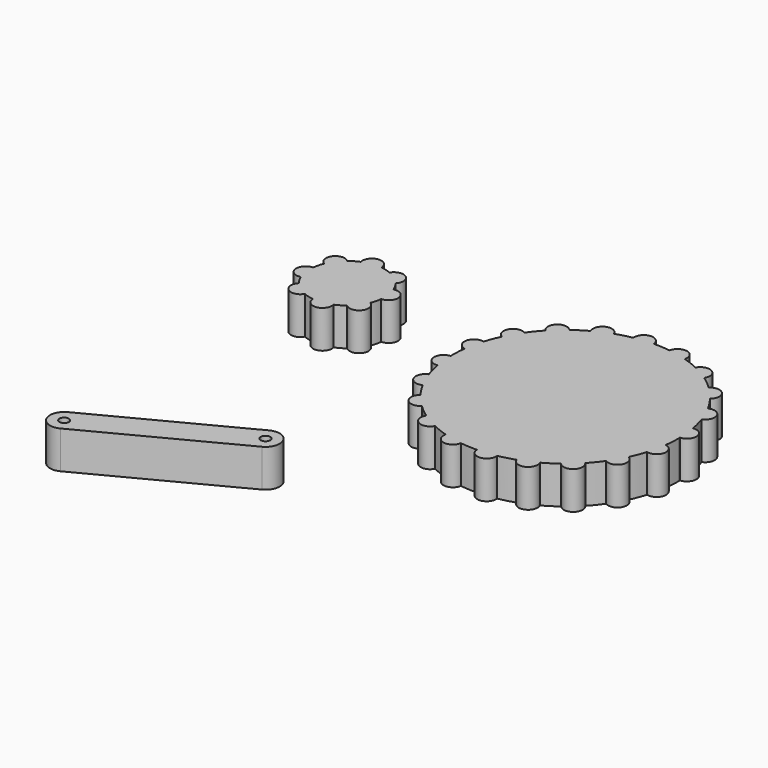
from build123d import *

# Parameters (mm, degrees)
F1_DEPTH = 25.4
F3_DEPTH = 25.4
F4_R     = 3.175
F5_DEPTH = 25.4


with BuildPart() as f1:
    # F0 (on Top) → F1 (new body)
    with BuildSketch(Plane.XY):
        with BuildLine():
            ThreePointArc((75.56192, -9.840543), (76.040313, -4.930604), (76.2, 0))
            ThreePointArc((76.2, 0), (76.196934, 0.683569), (76.187736, 1.367082))
            ThreePointArc((76.187736, 1.367082), (75.80937, 7.7058), (74.904551, 13.991005))
            ThreePointArc((74.904551, 13.991005), (73.670579, 19.470127), (72.036391, 24.843478))
            ThreePointArc((72.036391, 24.843478), (69.717773, 30.755035), (66.915003, 36.453016))
            ThreePointArc((66.915003, 36.453016), (64.048284, 41.282652), (60.833622, 45.88802))
            ThreePointArc((60.833622, 45.88802), (56.801714, 50.793753), (52.375349, 55.346751))
            ThreePointArc((52.375349, 55.346751), (48.156497, 59.054143), (43.676035, 62.440724))
            ThreePointArc((43.676035, 62.440724), (38.325507, 65.860425), (32.70883, 68.822761))
            ThreePointArc((32.70883, 68.822761), (27.550816, 71.045004), (22.243133, 72.881294))
            ThreePointArc((22.243133, 72.881294), (16.097733, 74.480219), (9.840543, 75.56192))
            ThreePointArc((9.840543, 75.56192), (4.24827, 76.081484), (-1.367082, 76.187736))
            ThreePointArc((-1.367082, 76.187736), (-7.7058, 75.80937), (-13.991005, 74.904551))
            ThreePointArc((-13.991005, 74.904551), (-19.470127, 73.670579), (-24.843478, 72.036391))
            ThreePointArc((-24.843478, 72.036391), (-30.755035, 69.717773), (-36.453016, 66.915003))
            ThreePointArc((-36.453016, 66.915003), (-41.282652, 64.048284), (-45.88802, 60.833622))
            ThreePointArc((-45.88802, 60.833622), (-50.793753, 56.801714), (-55.346751, 52.375349))
            ThreePointArc((-55.346751, 52.375349), (-59.054143, 48.156497), (-62.440724, 43.676035))
            ThreePointArc((-62.440724, 43.676035), (-65.860425, 38.325507), (-68.822761, 32.70883))
            ThreePointArc((-68.822761, 32.70883), (-71.045004, 27.550816), (-72.881294, 22.243133))
            ThreePointArc((-72.881294, 22.243133), (-74.480219, 16.097733), (-75.56192, 9.840543))
            ThreePointArc((-75.56192, 9.840543), (-76.081484, 4.24827), (-76.187736, -1.367082))
            ThreePointArc((-76.187736, -1.367082), (-75.80937, -7.7058), (-74.904551, -13.991005))
            ThreePointArc((-74.904551, -13.991005), (-73.670579, -19.470127), (-72.036391, -24.843478))
            ThreePointArc((-72.036391, -24.843478), (-69.717773, -30.755035), (-66.915003, -36.453016))
            ThreePointArc((-66.915003, -36.453016), (-64.048284, -41.282652), (-60.833622, -45.88802))
            ThreePointArc((-60.833622, -45.88802), (-56.801714, -50.793753), (-52.375349, -55.346751))
            ThreePointArc((-52.375349, -55.346751), (-48.156497, -59.054143), (-43.676035, -62.440724))
            ThreePointArc((-43.676035, -62.440724), (-38.325507, -65.860425), (-32.70883, -68.822761))
            ThreePointArc((-32.70883, -68.822761), (-27.550816, -71.045004), (-22.243133, -72.881294))
            ThreePointArc((-22.243133, -72.881294), (-16.097733, -74.480219), (-9.840543, -75.56192))
            ThreePointArc((-9.840543, -75.56192), (-4.24827, -76.081484), (1.367082, -76.187736))
            ThreePointArc((1.367082, -76.187736), (7.7058, -75.80937), (13.991005, -74.904551))
            ThreePointArc((13.991005, -74.904551), (19.470127, -73.670579), (24.843478, -72.036391))
            ThreePointArc((24.843478, -72.036391), (30.755035, -69.717773), (36.453016, -66.915003))
            ThreePointArc((36.453016, -66.915003), (41.282652, -64.048284), (45.88802, -60.833622))
            ThreePointArc((45.88802, -60.833622), (50.793753, -56.801714), (55.346751, -52.375349))
            ThreePointArc((55.346751, -52.375349), (59.054143, -48.156497), (62.440724, -43.676035))
            ThreePointArc((62.440724, -43.676035), (65.860425, -38.325507), (68.822761, -32.70883))
            ThreePointArc((68.822761, -32.70883), (71.045004, -27.550816), (72.881294, -22.243133))
            ThreePointArc((72.881294, -22.243133), (74.480219, -16.097733), (75.56192, -9.840543))
        make_face()
        with BuildLine():
            ThreePointArc((-55.346751, 52.375349), (-50.793753, 56.801714), (-45.88802, 60.833622))
            ThreePointArc((-45.88802, 60.833622), (-55.026566, 61.53519), (-55.346751, 52.375349))
        make_face()
        with BuildLine():
            ThreePointArc((-68.822761, 32.70883), (-65.860425, 38.325507), (-62.440724, 43.676035))
            ThreePointArc((-62.440724, 43.676035), (-71.348793, 41.519299), (-68.822761, 32.70883))
        make_face()
        with BuildLine():
            ThreePointArc((-75.56192, 9.840543), (-74.480219, 16.097733), (-72.881294, 22.243133))
            ThreePointArc((-72.881294, 22.243133), (-80.686904, 17.43921), (-75.56192, 9.840543))
        make_face()
        with BuildLine():
            ThreePointArc((-76.187736, -1.367082), (-82.126818, -8.34795), (-74.904551, -13.991005))
            ThreePointArc((-74.904551, -13.991005), (-75.80937, -7.7058), (-76.187736, -1.367082))
        make_face()
        with BuildLine():
            ThreePointArc((-72.036391, -24.843478), (-75.527587, -33.317955), (-66.915003, -36.453016))
            ThreePointArc((-66.915003, -36.453016), (-69.717773, -30.755035), (-72.036391, -24.843478))
        make_face()
        with BuildLine():
            ThreePointArc((-60.833622, -45.88802), (-61.53519, -55.026566), (-52.375349, -55.346751))
            ThreePointArc((-52.375349, -55.346751), (-56.801714, -50.793753), (-60.833622, -45.88802))
        make_face()
        with BuildLine():
            ThreePointArc((-43.676035, -62.440724), (-41.519299, -71.348793), (-32.70883, -68.822761))
            ThreePointArc((-32.70883, -68.822761), (-38.325507, -65.860425), (-43.676035, -62.440724))
        make_face()
        with BuildLine():
            ThreePointArc((-22.243133, -72.881294), (-17.43921, -80.686904), (-9.840543, -75.56192))
            ThreePointArc((-9.840543, -75.56192), (-16.097733, -74.480219), (-22.243133, -72.881294))
        make_face()
        with BuildLine():
            ThreePointArc((1.367082, -76.187736), (8.34795, -82.126818), (13.991005, -74.904551))
            ThreePointArc((13.991005, -74.904551), (7.7058, -75.80937), (1.367082, -76.187736))
        make_face()
        with BuildLine():
            ThreePointArc((24.843478, -72.036391), (33.317955, -75.527587), (36.453016, -66.915003))
            ThreePointArc((36.453016, -66.915003), (30.755035, -69.717773), (24.843478, -72.036391))
        make_face()
        with BuildLine():
            ThreePointArc((45.88802, -60.833622), (55.026566, -61.53519), (55.346751, -52.375349))
            ThreePointArc((55.346751, -52.375349), (50.793753, -56.801714), (45.88802, -60.833622))
        make_face()
        with BuildLine():
            ThreePointArc((62.440724, -43.676035), (71.348793, -41.519299), (68.822761, -32.70883))
            ThreePointArc((68.822761, -32.70883), (65.860425, -38.325507), (62.440724, -43.676035))
        make_face()
        with BuildLine():
            ThreePointArc((72.881294, -22.243133), (80.686904, -17.43921), (75.56192, -9.840543))
            ThreePointArc((75.56192, -9.840543), (74.480219, -16.097733), (72.881294, -22.243133))
        make_face()
        with BuildLine():
            ThreePointArc((74.904551, 13.991005), (75.80937, 7.7058), (76.187736, 1.367082))
            ThreePointArc((76.187736, 1.367082), (82.126818, 8.34795), (74.904551, 13.991005))
        make_face()
        with BuildLine():
            ThreePointArc((66.915003, 36.453016), (69.717773, 30.755035), (72.036391, 24.843478))
            ThreePointArc((72.036391, 24.843478), (75.527587, 33.317955), (66.915003, 36.453016))
        make_face()
        with BuildLine():
            ThreePointArc((52.375349, 55.346751), (56.801714, 50.793753), (60.833622, 45.88802))
            ThreePointArc((60.833622, 45.88802), (61.53519, 55.026566), (52.375349, 55.346751))
        make_face()
        with BuildLine():
            ThreePointArc((32.70883, 68.822761), (38.325507, 65.860425), (43.676035, 62.440724))
            ThreePointArc((43.676035, 62.440724), (41.519299, 71.348793), (32.70883, 68.822761))
        make_face()
        with BuildLine():
            ThreePointArc((9.840543, 75.56192), (16.097733, 74.480219), (22.243133, 72.881294))
            ThreePointArc((22.243133, 72.881294), (17.43921, 80.686904), (9.840543, 75.56192))
        make_face()
        with BuildLine():
            ThreePointArc((-13.991005, 74.904551), (-7.7058, 75.80937), (-1.367082, 76.187736))
            ThreePointArc((-1.367082, 76.187736), (-8.34795, 82.126818), (-13.991005, 74.904551))
        make_face()
        with BuildLine():
            ThreePointArc((-36.453016, 66.915003), (-30.755035, 69.717773), (-24.843478, 72.036391))
            ThreePointArc((-24.843478, 72.036391), (-33.317955, 75.527587), (-36.453016, 66.915003))
        make_face()
    extrude(amount=F1_DEPTH)


with BuildPart() as f3:
    # F2 (on Top) → F3 (new body)
    with BuildSketch(Plane.XY):
        with BuildLine():
            ThreePointArc((-145.170782, 26.483906), (-145.049149, 27.914659), (-145.008562, 29.35))
            ThreePointArc((-145.008562, 29.35), (-145.48561, 34.249641), (-146.898837, 38.965239))
            ThreePointArc((-146.898837, 38.965239), (-148.496802, 42.196585), (-150.536123, 45.16917))
            ThreePointArc((-150.536123, 45.16917), (-155.080911, 49.603965), (-160.583677, 52.772886))
            ThreePointArc((-160.583677, 52.772886), (-163.998515, 53.927862), (-167.542468, 54.587779))
            ThreePointArc((-167.542468, 54.587779), (-173.891992, 54.510002), (-180.023801, 52.859725))
            ThreePointArc((-180.023801, 52.859725), (-183.255148, 51.26176), (-186.227732, 49.222439))
            ThreePointArc((-186.227732, 49.222439), (-190.662527, 44.677651), (-193.831449, 39.174885))
            ThreePointArc((-193.831449, 39.174885), (-194.986424, 35.760046), (-195.646341, 32.216093))
            ThreePointArc((-195.646341, 32.216093), (-195.568564, 25.86657), (-193.918287, 19.73476))
            ThreePointArc((-193.918287, 19.73476), (-192.320322, 16.503414), (-190.281001, 13.530829))
            ThreePointArc((-190.281001, 13.530829), (-185.736213, 9.096034), (-180.233447, 5.927113))
            ThreePointArc((-180.233447, 5.927113), (-176.818608, 4.772137), (-173.274656, 4.11222))
            ThreePointArc((-173.274656, 4.11222), (-166.925132, 4.189997), (-160.793323, 5.840274))
            ThreePointArc((-160.793323, 5.840274), (-157.561976, 7.438239), (-154.589391, 9.47756))
            ThreePointArc((-154.589391, 9.47756), (-150.154597, 14.022348), (-146.985675, 19.525114))
            ThreePointArc((-146.985675, 19.525114), (-145.8307, 22.939953), (-145.170782, 26.483906))
        make_face()
        with BuildLine():
            ThreePointArc((-193.918287, 19.73476), (-195.568564, 25.86657), (-195.646341, 32.216093))
            ThreePointArc((-195.646341, 32.216093), (-201.858565, 24.995712), (-193.918287, 19.73476))
        make_face()
        with BuildLine():
            ThreePointArc((-193.831449, 39.174885), (-190.662527, 44.677651), (-186.227732, 49.222439))
            ThreePointArc((-186.227732, 49.222439), (-195.726018, 48.509564), (-193.831449, 39.174885))
        make_face()
        with BuildLine():
            ThreePointArc((-180.023801, 52.859725), (-173.891992, 54.510002), (-167.542468, 54.587779))
            ThreePointArc((-167.542468, 54.587779), (-174.762849, 60.800002), (-180.023801, 52.859725))
        make_face()
        with BuildLine():
            ThreePointArc((-160.583677, 52.772886), (-155.080911, 49.603965), (-150.536123, 45.16917))
            ThreePointArc((-150.536123, 45.16917), (-151.248998, 54.667456), (-160.583677, 52.772886))
        make_face()
        with BuildLine():
            ThreePointArc((-146.898837, 38.965239), (-145.48561, 34.249641), (-145.008562, 29.35))
            ThreePointArc((-145.008562, 29.35), (-145.049149, 27.914659), (-145.170782, 26.483906))
            ThreePointArc((-145.170782, 26.483906), (-138.958559, 33.704287), (-146.898837, 38.965239))
        make_face()
        with BuildLine():
            ThreePointArc((-154.589391, 9.47756), (-145.091105, 10.190435), (-146.985675, 19.525114))
            ThreePointArc((-146.985675, 19.525114), (-150.154597, 14.022348), (-154.589391, 9.47756))
        make_face()
        with BuildLine():
            ThreePointArc((-173.274656, 4.11222), (-166.054274, -2.100003), (-160.793323, 5.840274))
            ThreePointArc((-160.793323, 5.840274), (-166.925132, 4.189997), (-173.274656, 4.11222))
        make_face()
        with BuildLine():
            ThreePointArc((-190.281001, 13.530829), (-189.568126, 4.032543), (-180.233447, 5.927113))
            ThreePointArc((-180.233447, 5.927113), (-185.736213, 9.096034), (-190.281001, 13.530829))
        make_face()
    extrude(amount=F3_DEPTH)


with BuildPart() as f5:
    # F4 (on Top) → F5 (new body)
    with BuildSketch(Plane.XY):
        with BuildLine():
            Line((-97.819538, -127.252504), (-193.531265, -177.177125))
            ThreePointArc((-193.531265, -177.177125), (-197.571304, -190.027391), (-184.721038, -194.06743))
            Line((-184.721038, -194.06743), (-89.00931, -144.142809))
            ThreePointArc((-89.00931, -144.142809), (-84.969272, -131.292543), (-97.819538, -127.252504))
        make_face()
        with Locations((-189.126151, -185.622277)):
            Circle(F4_R, mode=Mode.SUBTRACT)
        with Locations((-93.414424, -135.697656)):
            Circle(F4_R, mode=Mode.SUBTRACT)
    extrude(amount=F5_DEPTH)


solid = Compound([f1.part, f3.part, f5.part])
